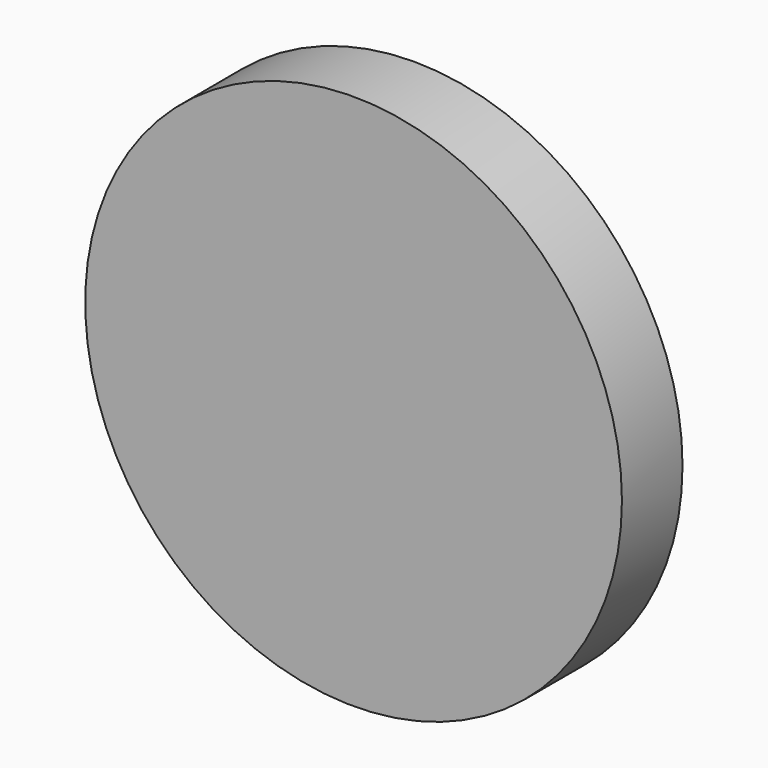
from build123d import *

# Parameters (mm, degrees)
SKETCH058_W  = 10
SKETCH058_H  = 3
PAD058_DEPTH = 3
FILLET_R     = 0.5
FILLET001_R  = 0.5
SKETCH057_R  = 2.5
PAD057_DEPTH = 4
SKETCH056_R  = 22.5
PAD056_DEPTH = 6.35


with BuildPart() as fillet001:
    # Sketch058 → Pad058 (new body)
    with BuildSketch(Plane.XZ):
        with Locations((5, -1.5)):
            Rectangle(SKETCH058_W, SKETCH058_H)
    extrude(amount=PAD058_DEPTH)

    # Fillet
    fillet_edges = [fillet001.edges().sort_by_distance(p)[0] for p in [
        (10, -1.5, -3),
    ]]
    fillet(fillet_edges, radius=FILLET_R)

    # Fillet001
    fillet001_edges = [fillet001.edges().sort_by_distance(p)[0] for p in [
        (10, -1.5, 0),
    ]]
    fillet(fillet001_edges, radius=FILLET001_R)


with BuildPart() as fillet001_1:
    # Fillet001 placement: moved
    add(fillet001.part.moved(Location((-23, 0, 0))))


with BuildPart() as body057:
    # Sketch057 → Pad057 (new body)
    with BuildSketch(Plane.XZ):
        Circle(SKETCH057_R)
    extrude(amount=PAD057_DEPTH)


with BuildPart() as body057_1:
    # Body057 placement: moved
    add(body057.part.moved(Location((10, 0, -10))))


with BuildPart() as ledplate:
    # Sketch056 → Pad056 (new body)
    with BuildSketch(Plane.XZ):
        Circle(SKETCH056_R)
    extrude(amount=PAD056_DEPTH)

    # Cut061: cut Body057
    add(body057_1.part, mode=Mode.SUBTRACT)

    # Cut062: cut Fillet001
    add(fillet001_1.part, mode=Mode.SUBTRACT)


with BuildPart() as ledplate_1:
    # Cut062 placement: moved
    add(ledplate.part.moved(Location((0, 14.75, 0))))


solid = ledplate_1.part
